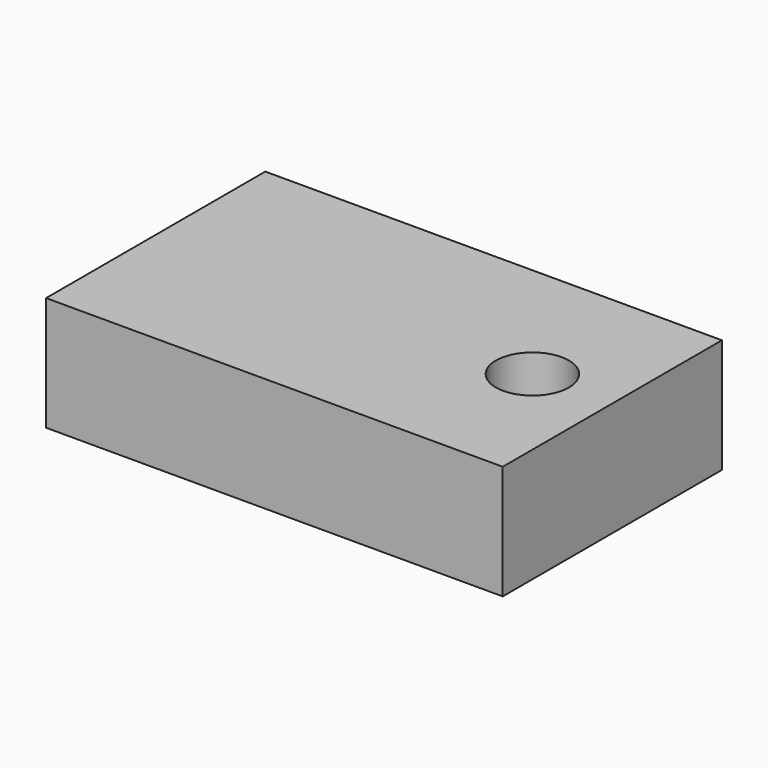
from build123d import *

# Parameters (mm, degrees)
F0_R     = 1.6
F1_DEPTH = 5


with BuildPart() as f1:
    # F0 (on Top) → F1 (new body)
    with BuildSketch(Plane.XY):
        with Locations((6.5, 0)):
            Circle(F0_R)
        Polygon((10, 0), (10, 6), (-10, 6), (-10, -6), (10, -6), align=None)
        with Locations((6.5, 0)):
            Circle(F0_R, mode=Mode.SUBTRACT)
    extrude(amount=F1_DEPTH)


solid = f1.part
